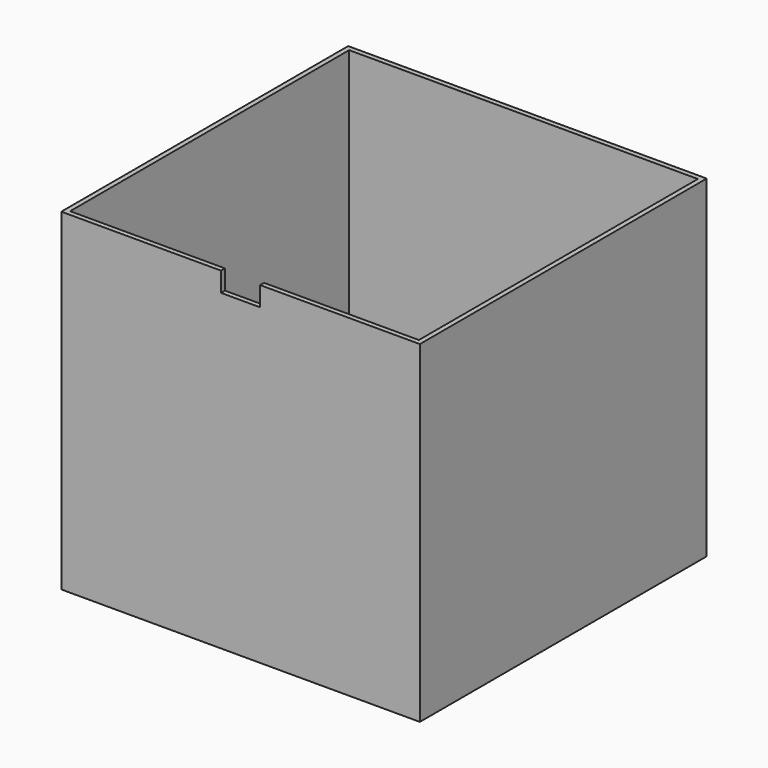
from build123d import *

# Parameters (mm, degrees)
F0_W     = 73.3
F0_H     = 73.3
F0_W_2   = 71.3
F0_H_2   = 71.3
F1_DEPTH = 68
F3_DEPTH = 5


with BuildPart() as f1:
    # F0 (on Top) → F1 (new body)
    with BuildSketch(Plane.XY):
        with Locations((36.65, -36.65)):
            Rectangle(F0_W, F0_H)
        with Locations((36.65, -36.65)):
            Rectangle(F0_W_2, F0_H_2, mode=Mode.SUBTRACT)
    extrude(amount=F1_DEPTH)

    # F2 (on face) → F3 (cut)
    with BuildSketch(Plane.XZ.offset(73.3)):
        Polygon((32.65, 64), (36.65, 64), (40.65, 64), (40.65, 68), (32.65, 68), align=None)
    extrude(amount=-F3_DEPTH, mode=Mode.SUBTRACT)


solid = f1.part
